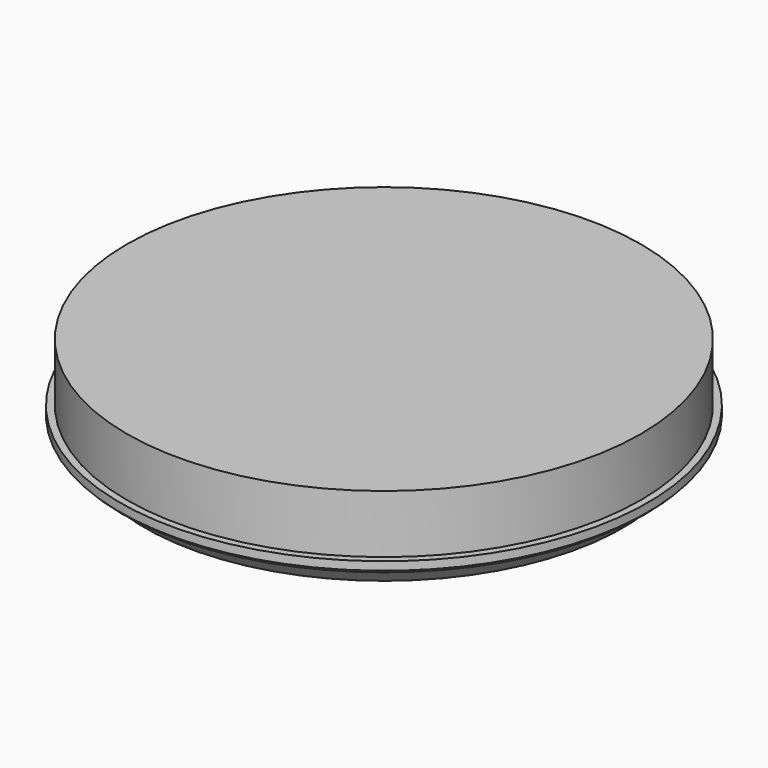
from build123d import *

# Parameters (mm, degrees)
F3_SIZE = 0.5
F4_SIZE = 3


with BuildPart() as f2:
    # F1 (on face) → F2 (revolve)
    with BuildSketch(Plane.XZ):
        Polygon((37.7653092146, 10.8646117151), (-5.6334966794, 10.8646117151), (-5.6334966794, 1.0394179262), (-6.8111736327, 1.0394179262), (-6.8111736327, -0.8785137325), (-5.6334966794, -0.8785137325), (-5.6334966794, -4.0582427464), (37.7653092146, -4.0582427464), align=None)
    revolve(axis=Axis((37.7653092146, 0, 3.4031844843), (0, 0, 1)))

    # F3
    f3_edges = [f2.edges().sort_by_distance(p)[0] for p in [
        (82.341792, 0, -0.878514),
    ]]
    chamfer(f3_edges, length=F3_SIZE)

    # F4
    f4_edges = [f2.edges().sort_by_distance(p)[0] for p in [
        (81.164115, 0, -4.058243),
    ]]
    chamfer(f4_edges, length=F4_SIZE)


solid = f2.part
